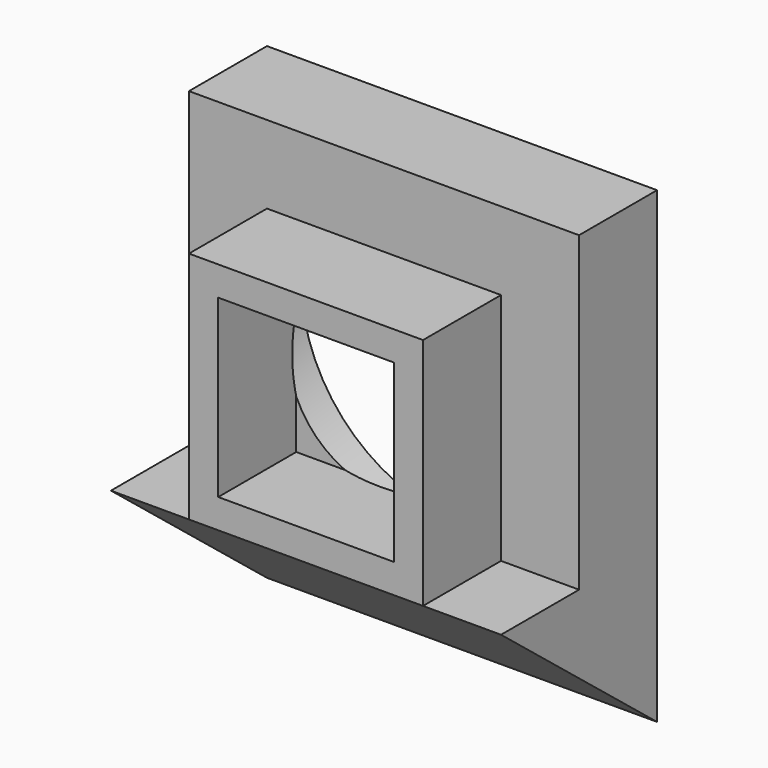
from build123d import *

# Parameters (mm, degrees)
F0_W      = 20
F0_H      = 20
F1_DEPTH  = 5
F2_W      = 12
F2_H      = 12
F2_W_2    = 9
F2_H_2    = 9
F3_DEPTH  = 5
F5_D      = 16.5
F5_DEPTH  = 3
F5_TIP    = 4.957100107
F6_W      = 20
F6_H      = 4
F7_DEPTH  = 5
F9_DEPTH  = 20.001
F11_DEPTH = 20


with BuildPart() as f1:
    # F0 (on Front) → F1 (new body)
    with BuildSketch(Plane.XZ):
        Rectangle(F0_W, F0_H)
    extrude(amount=F1_DEPTH)

    # F2 (on face) → F3 (join)
    with BuildSketch(Plane.XZ.offset(5)):
        Rectangle(F2_W, F2_H)
        Rectangle(F2_W_2, F2_H_2, mode=Mode.SUBTRACT)
    extrude(amount=F3_DEPTH)

    # F5
    with Locations(Plane(origin=(0, 0, 0), x_dir=(-1, 0, 0), z_dir=(0, 1, 0))):
        with Locations((0, 0)):
            Hole(F5_D / 2, depth=F5_DEPTH)
            with Locations((0, 0, -(F5_DEPTH + F5_TIP / 2))):  # 118° drill point
                Cone(0, F5_D / 2, F5_TIP, mode=Mode.SUBTRACT)

    # F6 (on face) → F7 (join)
    with BuildSketch(Plane.XZ.offset(5)):
        with Locations((0, -8)):
            Rectangle(F6_W, F6_H)
    extrude(amount=F7_DEPTH)

    # F8 (on face) → F9 (cut, through all)
    with BuildSketch(Plane(origin=(-10, 0, 0), x_dir=(0, -1, 0), z_dir=(-1, 0, 0))):
        Polygon((10, -6), (5, -10), (10, -10), align=None)
    extrude(amount=-F9_DEPTH, mode=Mode.SUBTRACT)

    # F10 (on face) → F11 (join)
    with BuildSketch(Plane(origin=(-10, 0, 0), x_dir=(0, -1, 0), z_dir=(-1, 0, 0))):
        Polygon((0, -14), (5, -10), (0, -10), align=None)
    extrude(amount=-F11_DEPTH)


solid = f1.part
